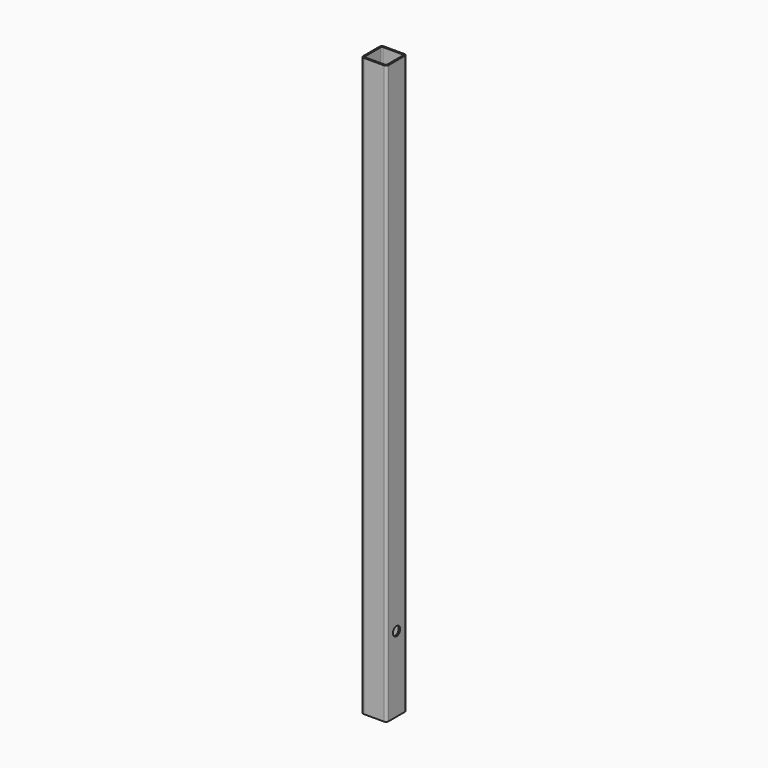
from build123d import *

# Parameters (mm, degrees)
F0_W     = 50
F0_H     = 50
F0_W_2   = 44
F0_H_2   = 44
F1_DEPTH = 1150
F2_R     = 2
F3_R     = 5
F5_D     = 18


with BuildPart() as f1:
    # F0 (on Top) → F1 (new body)
    with BuildSketch(Plane.XY):
        Rectangle(F0_W, F0_H)
        Rectangle(F0_W_2, F0_H_2, mode=Mode.SUBTRACT)
    extrude(amount=F1_DEPTH)

    # F2
    f2_edges = [f1.edges().sort_by_distance(p)[0] for p in [
        (22, 22, 575),
        (-22, -22, 575),
        (-22, 22, 575),
        (22, -22, 575),
    ]]
    fillet(f2_edges, radius=F2_R)

    # F3
    f3_edges = [f1.edges().sort_by_distance(p)[0] for p in [
        (-25, 25, 575),
        (25, 25, 575),
        (-25, -25, 575),
        (25, -25, 575),
    ]]
    fillet(f3_edges, radius=F3_R)

    # F5 (through all)
    with Locations(Plane.YZ.offset(25)):
        with Locations((0, 150)):
            Hole(F5_D / 2)


solid = f1.part
